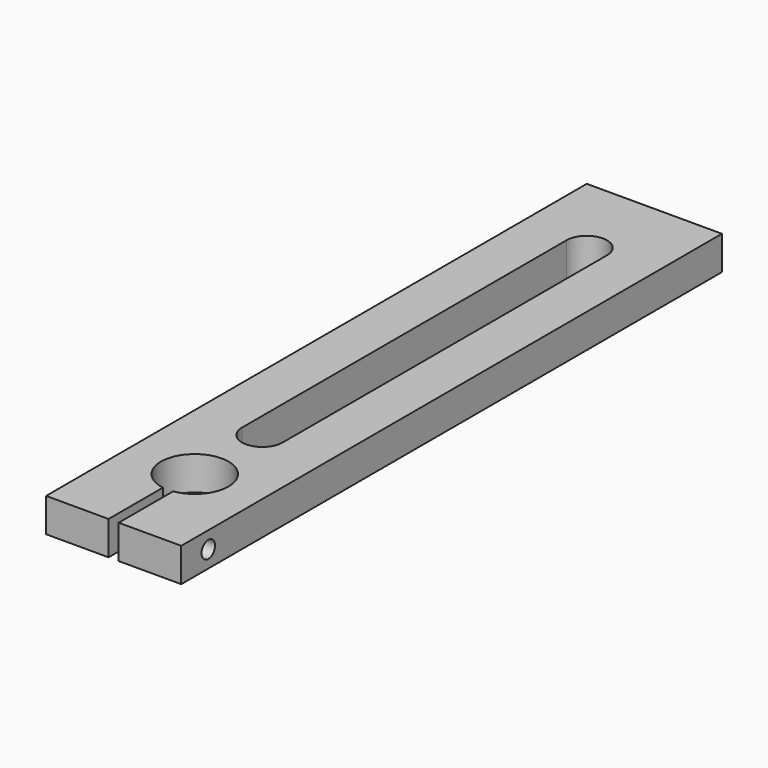
from build123d import *

# Parameters (mm, degrees)
PAD_DEPTH    = 10
SKETCH001_R  = 2.5
POCKET_DEPTH = 40.001


with BuildPart() as part:
    # Sketch → Pad (new body)
    with BuildSketch(Plane.XY):
        with BuildLine():
            Line((-20, 170), (20, 170))
            Line((20, 170), (20, -30))
            Line((20, -30), (1.5, -30))
            Line((1.5, -9.88686), (1.5, -30))
            ThreePointArc((1.5, -9.88686), (0, 10), (-1.5, -9.88686))
            Line((-1.5, -9.88686), (-1.5, -30))
            Line((-1.5, -30), (-20, -30))
            Line((-20, -30), (-20, 170))
        make_face()
        with BuildLine():
            ThreePointArc((6, 145), (0, 151), (-6, 145))
            Line((-6, 25), (-6, 145))
            ThreePointArc((-6, 25), (0, 19), (6, 25))
            Line((6, 25), (6, 145))
        make_face(mode=Mode.SUBTRACT)
    extrude(amount=PAD_DEPTH)

    # Sketch001 (on Face8 of Pad) → Pocket (cut, through all)
    with BuildSketch(Plane(origin=(-20, 0, 0), x_dir=(0, -1, 0), z_dir=(-1, 0, 0))):
        with Locations((20, 5)):
            Circle(SKETCH001_R)
    extrude(amount=-POCKET_DEPTH, mode=Mode.SUBTRACT)


solid = part.part
